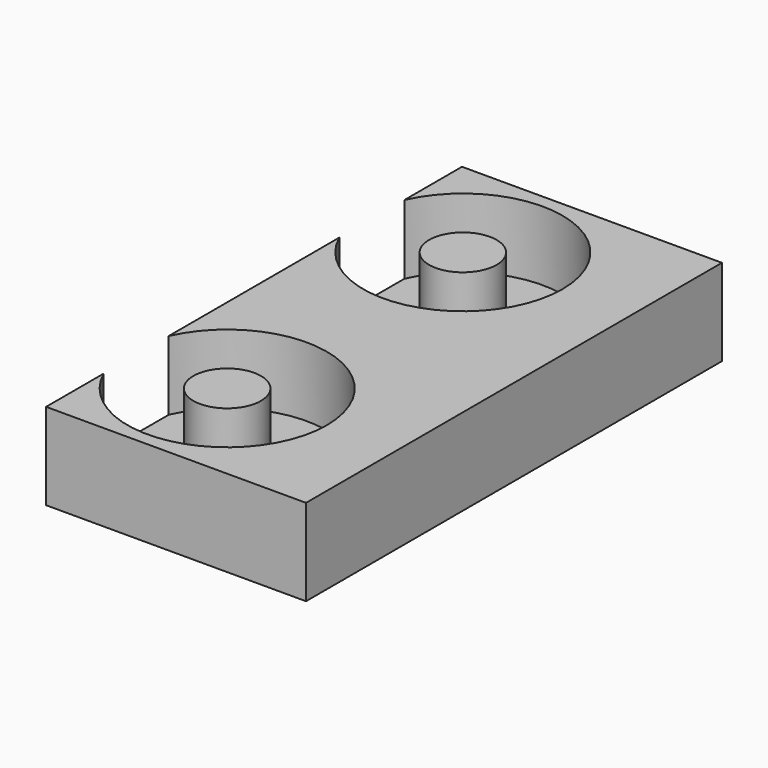
from build123d import *

# Parameters (mm, degrees)
F0_W     = 30
F0_H     = 60
F1_DEPTH = 10
F2_R     = 3.9
F3_DEPTH = 8
F4_SIZE  = 0.75


with BuildPart() as f1:
    # F0 (on Top) → F1 (new body)
    with BuildSketch(Plane.XY):
        Rectangle(F0_W, F0_H)
    extrude(amount=F1_DEPTH)

    # F2 (on face) → F3 (cut)
    with BuildSketch(Plane.XY.offset(10)):
        with BuildLine():
            ThreePointArc((-15, 12.309584), (-2.102084, 5.752778), (7, 17))
            ThreePointArc((7, 17), (-2.102084, 28.247222), (-15, 21.690416))
            Line((-15, 21.690416), (-15, 12.309584))
        make_face()
        with Locations((-4.5, 17)):
            Circle(F2_R, mode=Mode.SUBTRACT)
        with BuildLine():
            ThreePointArc((7, -17), (-2.102084, -5.752778), (-15, -12.309584))
            Line((-15, -12.309584), (-15, -21.690416))
            ThreePointArc((-15, -21.690416), (-2.102084, -28.247222), (7, -17))
        make_face()
        with Locations((-4.5, -17)):
            Circle(F2_R, mode=Mode.SUBTRACT)
    extrude(amount=-F3_DEPTH, mode=Mode.SUBTRACT)

    # F4
    f4_edges = [f1.edges().sort_by_distance(p)[0] for p in [
        (-8.4, 17, 2),
        (-8.4, -17, 2),
    ]]
    chamfer(f4_edges, length=F4_SIZE)


solid = f1.part
